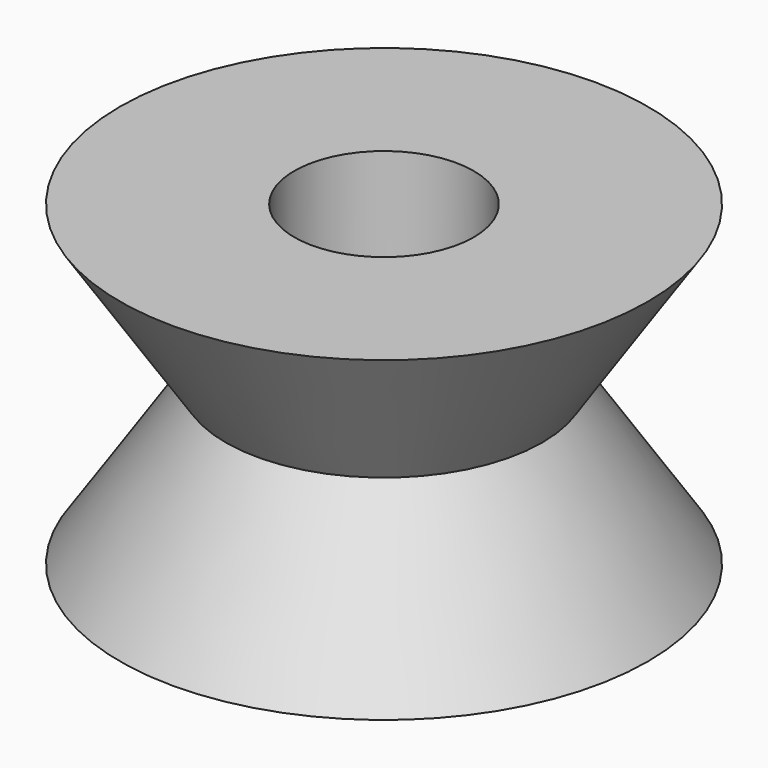
from build123d import *

# Parameters (mm, degrees)
CYLINDER_R     = 1.7
CYLINDER_DEPTH = 10


with BuildPart() as cilindro:
    # Cylinder → Cylinder (new body)
    with BuildSketch(Plane.XY.offset(-5)):
        Circle(CYLINDER_R)
    extrude(amount=CYLINDER_DEPTH)


with BuildPart() as cono:
    # Cone → Cone (revolve)
    with BuildSketch(Plane.XZ):
        Polygon((0, 0), (3, 0), (5, 3), (0, 3), align=None)
    revolve(axis=Axis((0, 0, 0), (0, 0, 1)))


with BuildPart() as tensioner:
    # Cone001 → Cone001 (revolve)
    with BuildSketch(Plane(origin=(0, 0, 0), x_dir=(1, 0, 0), z_dir=(0, 1, 0))):
        Polygon((0, 0), (3, 0), (5, 3), (0, 3), align=None)
    revolve(axis=Axis((0, 0, 0), (0, 0, -1)))

    # Fusion: union Cono
    add(cono.part)

    # Cut: cut Cilindro
    add(cilindro.part, mode=Mode.SUBTRACT)


solid = tensioner.part
